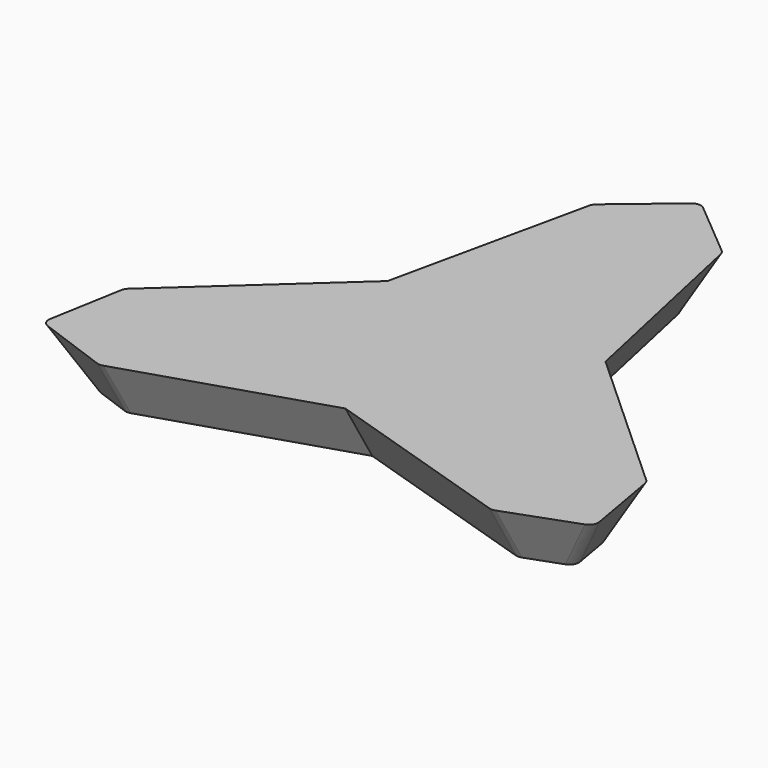
from build123d import *

# Parameters (mm, degrees)
F0_R     = 10
F1_DEPTH = 10
F1_TAPER = -30
F2_R     = 2


with BuildPart() as f1:
    # F0 (on Top) → F1 (new body)
    with BuildSketch(Plane.XY):
        Polygon((6.5256503992, 44.5243291569), (0, 50), (-6.5256503992, 44.5243291569), (-14.4337567297, 8.3333333333), (-41.8220253359, -16.6107855565), (-43.3012701892, -25), (-35.2963749367, -27.9135436003), (0, -16.6666666667), (35.2963749367, -27.9135436003), (43.3012701892, -25), (41.8220253359, -16.6107855565), (14.4337567297, 8.3333333333), align=None)
        Circle(F0_R, mode=Mode.SUBTRACT)
        Circle(F0_R)
    extrude(amount=F1_DEPTH, taper=F1_TAPER)

    # F2
    f2_edges = [f1.edges().sort_by_distance(p)[0] for p in [
        (0, 53.768386, 5),
        (9.135628, 46.102684, 5),
        (-9.135628, 46.102684, 5),
        (44.49391, -15.139656, 5),
        (46.564788, -26.884193, 5),
        (35.358282, -30.963028, 5),
        (-44.49391, -15.139656, 5),
        (-46.564788, -26.884193, 5),
        (-35.358282, -30.963028, 5),
    ]]
    fillet(f2_edges, radius=F2_R)


solid = f1.part
